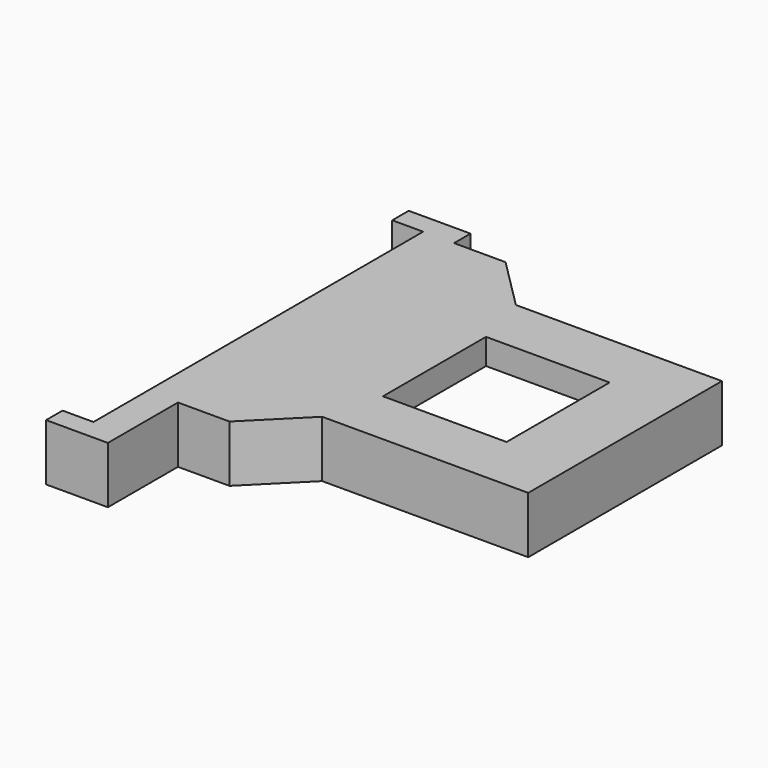
from build123d import *

# Parameters (mm, degrees)
BOX021038_W        = 3
BOX021038_H        = 9
BOX021038_DEPTH    = 5.5
BOX021037_W        = 6
BOX021037_H        = 2
BOX021037_DEPTH    = 5.5
BOX021035_W        = 1
BOX021035_H        = 21.5
BOX021035_DEPTH    = 3
BOX021028_W        = 12
BOX021028_H        = 31.5
BOX021028_DEPTH    = 3
BOX021029_W        = 13
BOX021029_H        = 33.5
BOX021029_DEPTH    = 5.5
CHAMFER016036_SIZE = 5
CHAMFER016037_SIZE = 5
BOX021034_W        = 1
BOX021034_H        = 23.5
BOX021034_DEPTH    = 4
BOX021033_W        = 20
BOX021033_H        = 1
BOX021033_DEPTH    = 4
BOX021032_W        = 20
BOX021032_H        = 1
BOX021032_DEPTH    = 4
BOX021031_W        = 12
BOX021031_H        = 12.5
BOX021031_DEPTH    = 4
BOX021030_W        = 20
BOX021030_H        = 23.5
BOX021030_DEPTH    = 2.5
BOX021036_W        = 6
BOX021036_H        = 2
BOX021036_DEPTH    = 5.5


with BuildPart() as cube056:
    # Box021038 → Box021038 (new body)
    with BuildSketch(Plane(origin=(-1, -9.5, 0), x_dir=(1, 0, 0), z_dir=(0, 0, 1))):
        with Locations((1.5, 4.5)):
            Rectangle(BOX021038_W, BOX021038_H)
    extrude(amount=BOX021038_DEPTH)


with BuildPart() as cube055:
    # Box021037 → Box021037 (new body)
    with BuildSketch(Plane(origin=(-4, -9.5, 0), x_dir=(1, 0, 0), z_dir=(0, 0, 1))):
        with Locations((3, 1)):
            Rectangle(BOX021037_W, BOX021037_H)
    extrude(amount=BOX021037_DEPTH)


with BuildPart() as cube053:
    # Box021035 → Box021035 (new body)
    with BuildSketch(Plane(origin=(11, 5, 0), x_dir=(1, 0, 0), z_dir=(0, 0, 1))):
        with Locations((0.5, 10.75)):
            Rectangle(BOX021035_W, BOX021035_H)
    extrude(amount=BOX021035_DEPTH)


with BuildPart() as cube046:
    # Box021028 → Box021028 (new body)
    with BuildSketch(Plane(origin=(-1, 0, 0), x_dir=(1, 0, 0), z_dir=(0, 0, 1))):
        with Locations((6, 15.75)):
            Rectangle(BOX021028_W, BOX021028_H)
    extrude(amount=BOX021028_DEPTH)


with BuildPart() as cut004005004003002008001014:
    # Box021029 → Box021029 (new body)
    with BuildSketch(Plane(origin=(-1, -1, 0), x_dir=(1, 0, 0), z_dir=(0, 0, 1))):
        with Locations((6.5, 16.75)):
            Rectangle(BOX021029_W, BOX021029_H)
    extrude(amount=BOX021029_DEPTH)

    # Cut004005004003002008001013: cut Cube046
    add(cube046.part, mode=Mode.SUBTRACT)

    # Chamfer016036
    chamfer016036_edges = [cut004005004003002008001014.edges().sort_by_distance(p)[0] for p in [
        (11, 31.5, 1.5),
        (11, 0, 1.5),
    ]]
    chamfer(chamfer016036_edges, length=CHAMFER016036_SIZE)

    # Chamfer016037
    chamfer016037_edges = [cut004005004003002008001014.edges().sort_by_distance(p)[0] for p in [
        (12, -1, 2.75),
        (12, 32.5, 2.75),
    ]]
    chamfer(chamfer016037_edges, length=CHAMFER016037_SIZE)

    # Cut004005004003002008001014: cut Cube053
    add(cube053.part, mode=Mode.SUBTRACT)


with BuildPart() as cube052:
    # Box021034 → Box021034 (new body)
    with BuildSketch(Plane(origin=(31, 4, 0), x_dir=(1, 0, 0), z_dir=(0, 0, 1))):
        with Locations((0.5, 11.75)):
            Rectangle(BOX021034_W, BOX021034_H)
    extrude(amount=BOX021034_DEPTH)


with BuildPart() as cube051:
    # Box021033 → Box021033 (new body)
    with BuildSketch(Plane(origin=(12, 26.5, 0), x_dir=(1, 0, 0), z_dir=(0, 0, 1))):
        with Locations((10, 0.5)):
            Rectangle(BOX021033_W, BOX021033_H)
    extrude(amount=BOX021033_DEPTH)


with BuildPart() as fusion003007008004003002005002002002002:
    # Box021032 → Box021032 (new body)
    with BuildSketch(Plane(origin=(12, 4, 0), x_dir=(1, 0, 0), z_dir=(0, 0, 1))):
        with Locations((10, 0.5)):
            Rectangle(BOX021032_W, BOX021032_H)
    extrude(amount=BOX021032_DEPTH)

    # Fusion003007008004003002005002002002002: union Cube052, Cube051
    add(cube052.part)
    add(cube051.part)


with BuildPart() as cube049:
    # Box021031 → Box021031 (new body)
    with BuildSketch(Plane(origin=(13.5, 9.5, 3), x_dir=(1, 0, 0), z_dir=(0, 0, 1))):
        with Locations((6, 6.25)):
            Rectangle(BOX021031_W, BOX021031_H)
    extrude(amount=BOX021031_DEPTH)


with BuildPart() as cut004005004003002008001012:
    # Box021030 → Box021030 (new body)
    with BuildSketch(Plane(origin=(12, 4, 3), x_dir=(1, 0, 0), z_dir=(0, 0, 1))):
        with Locations((10, 11.75)):
            Rectangle(BOX021030_W, BOX021030_H)
    extrude(amount=BOX021030_DEPTH)

    # Cut004005004003002008001012: cut Cube049
    add(cube049.part, mode=Mode.SUBTRACT)


with BuildPart() as led_cover_base:
    # Box021036 → Box021036 (new body)
    with BuildSketch(Plane(origin=(-4, 32.5, 0), x_dir=(1, 0, 0), z_dir=(0, 0, 1))):
        with Locations((3, 1)):
            Rectangle(BOX021036_W, BOX021036_H)
    extrude(amount=BOX021036_DEPTH)

    # Fusion003007008004003002005002002002003: union Cube056, Cube055, Cut004005004003002008001014, Fusion003007008004003002005002002002002, Cut004005004003002008001012
    add(cube056.part)
    add(cube055.part)
    add(cut004005004003002008001014.part)
    add(fusion003007008004003002005002002002002.part)
    add(cut004005004003002008001012.part)


solid = led_cover_base.part
